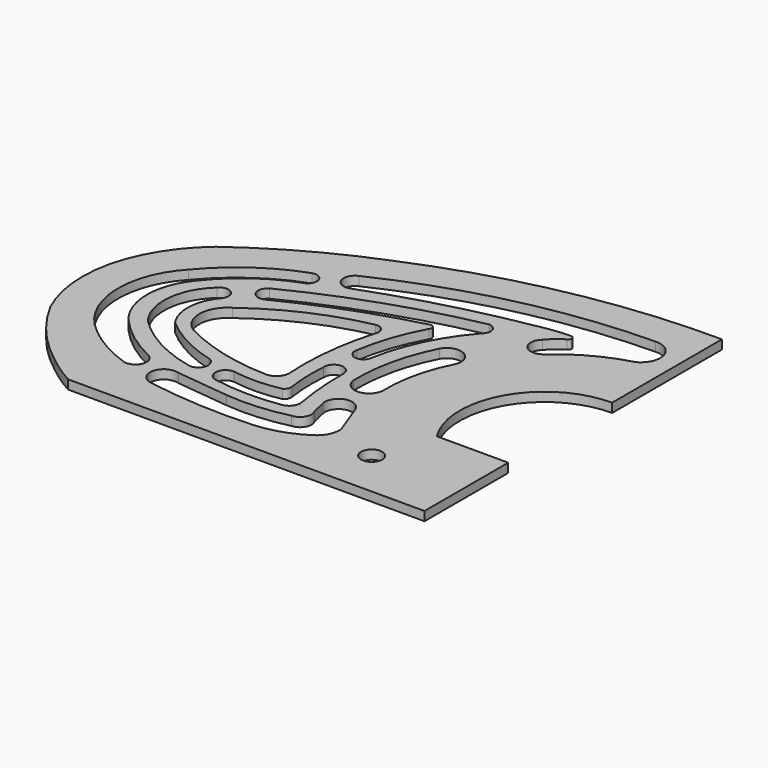
from build123d import *

# Parameters (mm, degrees)
PAD004_DEPTH        = 3
POCKET007_DEPTH     = 3.001
POCKET008_DEPTH     = 3.001
POCKET009_DEPTH     = 3.001
POCKET010_DEPTH     = 3.001
POCKET011_DEPTH     = 3.001
POCKET012_DEPTH     = 3.001
POCKET013_DEPTH     = 3.001
POCKET014_DEPTH     = 3.001
POCKET015_DEPTH     = 3.001
COPYCOPYSKETCH023_R = 3.5
POCKET033_DEPTH     = 5


with BuildPart() as part:
    # Sketch012 → Pad004 (new body)
    with BuildSketch(Plane.XY):
        with BuildLine():
            Line((0, 67.42), (0, -55.65))
            Line((0, -55.65), (-117.94, -55.65))
            ThreePointArc((-127.64, -49.11), (-122.947197, -52.613151), (-117.94, -55.65))
            ThreePointArc((-146.95, -26.77), (-138.520798, -38.999541), (-127.64, -49.11))
            ThreePointArc((-148.54, 6.09), (-150.980867, -10.496574), (-146.95, -26.77))
            ThreePointArc((-134.5, 26.2), (-142.831473, 17.060618), (-148.54, 6.09))
            ThreePointArc((-94.13, 48.54), (-115.023795, 38.650843), (-134.5, 26.2))
            ThreePointArc((0, 67.42), (-48.036997, 62.826084), (-94.13, 48.54))
        make_face()
    extrude(amount=PAD004_DEPTH)

    # CopySketch001 → Pocket007 (cut, through all)
    with BuildSketch(Plane.XY.offset(3)):
        with BuildLine():
            ThreePointArc((0, 22), (-24.535688, 7.490738), (-23.643181, -21))
            Line((-23.643181, -21), (0, -21))
            Line((0, -21), (0, 22))
        make_face()
        with BuildLine():
            ThreePointArc((-45.15951, 13.5), (-47.417918, 19.740491), (-53.752095, 17.76))
            ThreePointArc((-53.752095, 17.76), (-58.626578, 4.267932), (-60.018385, -10.01))
            ThreePointArc((-60.018385, -10.01), (-55.15457, -14.259051), (-50.463519, -9.82))
            ThreePointArc((-45.15951, 13.5), (-49.299707, 2.178481), (-50.463519, -9.82))
        make_face()
    extrude(amount=-POCKET007_DEPTH, mode=Mode.SUBTRACT)

    # CopySketch002 → Pocket008 (cut, through all)
    with BuildSketch(Plane.XY.offset(3)):
        with BuildLine():
            ThreePointArc((-49.444058, -22.5277), (-54.944649, -19.654794), (-58.184448, -24.9476))
            Line((-57.0427, -29.8572), (-58.184448, -24.9476))
            ThreePointArc((-60.1254, -35.4518), (-57.027903, -33.511958), (-57.0427, -29.8572))
            ThreePointArc((-80.4488, -36.935), (-70.225534, -37.037002), (-60.1254, -35.4518))
            Line((-97.9175, -34.995), (-80.4488, -36.935))
            ThreePointArc((-97.9175, -34.995), (-103.82056, -38.432829), (-99.6413, -43.8364))
            ThreePointArc((-99.6413, -43.8364), (-82.042265, -45.74625), (-64.34, -45.6882))
            ThreePointArc((-64.34, -45.6882), (-56.228822, -44.011588), (-48.7903, -40.3687))
            ThreePointArc((-48.7903, -40.3687), (-46.155403, -37.339305), (-45.3966, -33.3967))
            Line((-49.444058, -22.5277), (-45.3966, -33.3967))
        make_face()
    extrude(amount=-POCKET008_DEPTH, mode=Mode.SUBTRACT)

    # CopySketch003 → Pocket009 (cut, through all)
    with BuildSketch(Plane.XY.offset(3)):
        with BuildLine():
            ThreePointArc((-64.365395, -8.62779), (-67.742586, -5.639295), (-70.674058, -9.0661))
            ThreePointArc((-70.674058, -9.0661), (-70.835475, -15.903269), (-70.2223, -22.7148))
            ThreePointArc((-71.4121, -25.164), (-70.40839, -24.137996), (-70.2223, -22.7148))
            ThreePointArc((-87.147068, -25.4704), (-79.265214, -26.055148), (-71.4121, -25.164))
            ThreePointArc((-87.147068, -25.4704), (-90.683175, -28.650592), (-87.411994, -32.1027))
            ThreePointArc((-87.411994, -32.1027), (-76.595145, -33.065808), (-65.7651, -32.2646))
            ThreePointArc((-65.7651, -32.2646), (-63.346864, -30.693689), (-62.8224, -27.8581))
            ThreePointArc((-64.365395, -8.62779), (-64.044087, -18.279067), (-62.8224, -27.8581))
        make_face()
    extrude(amount=-POCKET009_DEPTH, mode=Mode.SUBTRACT)

    # CopySketch018 → Pocket010 (cut, through all)
    with BuildSketch(Plane.XY.offset(3)):
        with BuildLine():
            ThreePointArc((-72.02, 14.094017), (-72.392692, 16.846151), (-74.97, 17.880861))
            ThreePointArc((-74.97, 17.880861), (-93.250673, 11.950737), (-109.81, 2.196863))
            ThreePointArc((-109.81, 2.196863), (-114.369998, -5.844169), (-109.82, -13.890864))
            ThreePointArc((-109.82, -13.890864), (-95.344007, -19.39947), (-80, -21.511475))
            ThreePointArc((-80, -21.511475), (-76.570681, -20.127404), (-75.5, -16.587696))
            ThreePointArc((-72.02, 14.094017), (-75.072637, -1.097957), (-75.5, -16.587696))
        make_face()
    extrude(amount=-POCKET010_DEPTH, mode=Mode.SUBTRACT)

    # CopySketch019 → Pocket011 (cut, through all)
    with BuildSketch(Plane.XY.offset(3)):
        with BuildLine():
            ThreePointArc((-98.800419, -30.00485), (-94.734065, -27.856904), (-96.886613, -23.792983))
            ThreePointArc((-116.257935, -13.543183), (-107.162558, -19.783674), (-96.886613, -23.792983))
            ThreePointArc((-115.288548, 4.68), (-118.878907, -4.266385), (-116.257935, -13.543183))
            ThreePointArc((-115.288548, 4.68), (-115.784536, 8.891716), (-120.0081, 8.509533))
            ThreePointArc((-120.0081, 8.509533), (-126.190374, -3.981903), (-122.223343, -17.343009))
            ThreePointArc((-122.223343, -17.343009), (-111.413274, -25.3414), (-98.800419, -30.00485))
        make_face()
    extrude(amount=-POCKET011_DEPTH, mode=Mode.SUBTRACT)

    # CopySketch020 → Pocket012 (cut, through all)
    with BuildSketch(Plane.XY.offset(3)):
        with BuildLine():
            ThreePointArc((-103.601499, 24.683247), (-102.23683, 28.460376), (-105.872604, 30.166298))
            ThreePointArc((-105.872604, 30.166298), (-120.215401, 22.727476), (-132.072524, 11.752025))
            ThreePointArc((-132.072524, 11.752025), (-139.729925, -7.755401), (-131.983106, -27.22749))
            ThreePointArc((-131.983106, -27.22749), (-123.229381, -34.095551), (-113.177794, -38.866668))
            ThreePointArc((-113.177794, -38.866668), (-108.540165, -37.030837), (-109.968182, -32.251858))
            ThreePointArc((-126.694192, -19.799013), (-118.971743, -26.885797), (-109.968182, -32.251858))
            ThreePointArc((-126.624592, 8.183725), (-131.669932, -5.795181), (-126.694192, -19.799013))
            ThreePointArc((-103.601499, 24.683247), (-116.290857, 18.07698), (-126.624592, 8.183725))
        make_face()
    extrude(amount=-POCKET012_DEPTH, mode=Mode.SUBTRACT)

    # CopySketch021 → Pocket013 (cut, through all)
    with BuildSketch(Plane.XY.offset(3)):
        with BuildLine():
            ThreePointArc((-50.283742, 31.504046), (-49.647546, 34.54879), (-52.191507, 36.338616))
            ThreePointArc((-52.191507, 36.338616), (-81.328643, 28.362539), (-109.1608, 16.616836))
            ThreePointArc((-109.1608, 16.616836), (-110.288036, 12.383863), (-106.13456, 10.991977))
            ThreePointArc((-64.402467, 26.573807), (-85.690853, 19.914024), (-106.13456, 10.991977))
            ThreePointArc((-62.78, 24.679977), (-62.809905, 26.296266), (-64.402467, 26.573807))
            ThreePointArc((-62.78, 24.679977), (-67.226683, 14.561044), (-69.887292, 3.833184))
            ThreePointArc((-69.887292, 3.833184), (-67.736073, 0.176429), (-64.257156, 2.604748))
            ThreePointArc((-50.283742, 31.504046), (-59.288565, 18.030198), (-64.257156, 2.604748))
        make_face()
    extrude(amount=-POCKET013_DEPTH, mode=Mode.SUBTRACT)

    # CopySketch021001 → Pocket014 (cut, through all)
    with BuildSketch(Plane.XY.offset(3)):
        with BuildLine():
            ThreePointArc((-50.283742, 31.504046), (-49.647546, 34.54879), (-52.191507, 36.338616))
            ThreePointArc((-52.191507, 36.338616), (-81.328643, 28.362539), (-109.1608, 16.616836))
            ThreePointArc((-109.1608, 16.616836), (-110.288036, 12.383863), (-106.13456, 10.991977))
            ThreePointArc((-64.402467, 26.573807), (-85.690853, 19.914024), (-106.13456, 10.991977))
            ThreePointArc((-62.78, 24.679977), (-62.809905, 26.296266), (-64.402467, 26.573807))
            ThreePointArc((-62.78, 24.679977), (-67.226683, 14.561044), (-69.887292, 3.833184))
            ThreePointArc((-69.887292, 3.833184), (-67.736073, 0.176429), (-64.257156, 2.604748))
            ThreePointArc((-50.283742, 31.504046), (-59.288565, 18.030198), (-64.257156, 2.604748))
        make_face()
    extrude(amount=-POCKET014_DEPTH, mode=Mode.SUBTRACT)

    # CopySketch022 → Pocket015 (cut, through all)
    with BuildSketch(Plane.XY.offset(3)):
        with BuildLine():
            ThreePointArc((-95.442672, 36.502192), (-97.482535, 31.79948), (-92.84279, 29.620188))
            ThreePointArc((-41.465962, 43.393869), (-67.471527, 37.690024), (-92.84279, 29.620188))
            ThreePointArc((-31.493419, 44.517429), (-36.50836, 44.210116), (-41.465962, 43.393869))
            ThreePointArc((-31.299124, 42.370301), (-30.554517, 43.520036), (-31.493419, 44.517429))
            ThreePointArc((-31.299124, 42.370301), (-33.877911, 40.536126), (-36.077509, 38.26102))
            ThreePointArc((-36.077509, 38.26102), (-36.412838, 32.470844), (-30.619491, 32.195671))
            ThreePointArc((-9.425793, 43.552177), (-20.673272, 39.08814), (-30.619491, 32.195671))
            ThreePointArc((-9.425793, 43.552177), (-6.127962, 50.951278), (-12.675069, 55.721791))
            ThreePointArc((-12.675069, 55.721791), (-55.094244, 50.570744), (-95.442672, 36.502192))
        make_face()
    extrude(amount=-POCKET015_DEPTH, mode=Mode.SUBTRACT)

    # CopyCopySketch023 → Pocket033 (cut)
    with BuildSketch(Plane.XY.offset(3)):
        with Locations((-30, -40)):
            Circle(COPYCOPYSKETCH023_R)
    extrude(amount=-POCKET033_DEPTH, mode=Mode.SUBTRACT)


with BuildPart() as part_1:
    # Body003 placement: moved
    add(part.part.moved(Location((0, 0, 83))))


solid = part_1.part
